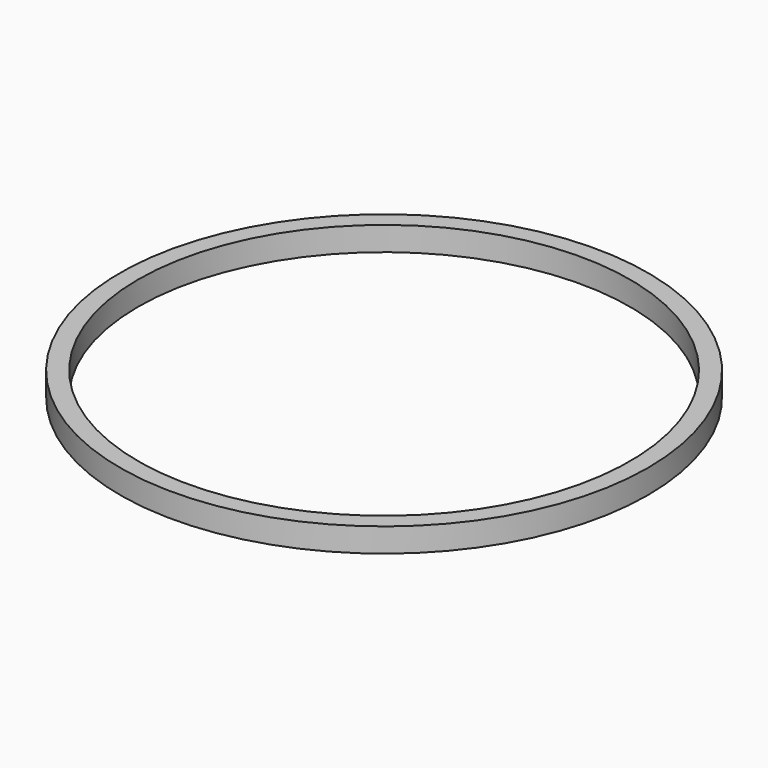
from build123d import *

# Parameters (mm, degrees)
F0_R     = 22
F1_DEPTH = 2
F3_D     = 41
F3_DEPTH = 2


with BuildPart() as f1:
    # F0 (on Top) → F1 (new body)
    with BuildSketch(Plane.XY):
        Circle(F0_R)
    extrude(amount=F1_DEPTH)

    # F3
    with Locations(Plane.XY):
        with Locations((0, 0)):
            Hole(F3_D / 2, depth=F3_DEPTH)


solid = f1.part
